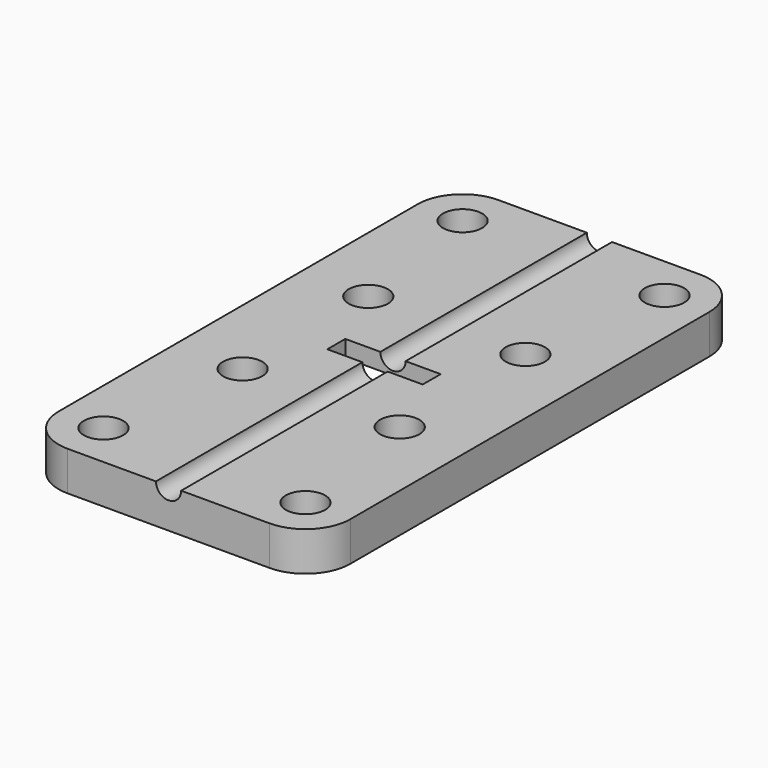
from build123d import *

# Parameters (mm, degrees)
F0_R     = 1.75
F0_W     = 12
F0_H     = 10
F1_DEPTH = 2
F2_R     = 1.75
F3_DEPTH = 1.5
F4_R     = 1.125
F5_DEPTH = 60
F6_W     = 8.5
F6_H     = 2
F7_DEPTH = 5


with BuildPart() as f1:
    # F0 (on Top) → F1 (new body)
    with BuildSketch(Plane.XY):
        with BuildLine():
            ThreePointArc((-13, -20), (-11.828427, -22.828427), (-9, -24))
            Line((-9, -24), (9, -24))
            ThreePointArc((9, -24), (11.828427, -22.828427), (13, -20))
            Line((13, -20), (13, 20))
            ThreePointArc((13, 20), (11.828427, 22.828427), (9, 24))
            Line((9, 24), (-9, 24))
            ThreePointArc((-9, 24), (-11.828427, 22.828427), (-13, 20))
            Line((-13, 20), (-13, -20))
        make_face()
        with Locations((-9, -20)):
            Circle(F0_R, mode=Mode.SUBTRACT)
        with Locations((-7, -7)):
            Circle(F0_R, mode=Mode.SUBTRACT)
        with Locations((9, -20)):
            Circle(F0_R, mode=Mode.SUBTRACT)
        with Locations((7, -7)):
            Circle(F0_R, mode=Mode.SUBTRACT)
        with Locations((-7, 7)):
            Circle(F0_R, mode=Mode.SUBTRACT)
        with Locations((-9, 20)):
            Circle(F0_R, mode=Mode.SUBTRACT)
        Rectangle(F0_W, F0_H, mode=Mode.SUBTRACT)
        with Locations((7, 7)):
            Circle(F0_R, mode=Mode.SUBTRACT)
        with Locations((9, 20)):
            Circle(F0_R, mode=Mode.SUBTRACT)
    extrude(amount=F1_DEPTH)

    # F2 (on face) → F3 (join)
    with BuildSketch(Plane.XY.offset(2)):
        with BuildLine():
            ThreePointArc((-13, -20), (-11.828427, -22.828427), (-9, -24))
            Line((-9, -24), (9, -24))
            ThreePointArc((9, -24), (11.828427, -22.828427), (13, -20))
            Line((13, -20), (13, 20))
            ThreePointArc((13, 20), (11.828427, 22.828427), (9, 24))
            Line((9, 24), (-9, 24))
            ThreePointArc((-9, 24), (-11.828427, 22.828427), (-13, 20))
            Line((-13, 20), (-13, -20))
        make_face()
        with Locations((-9, -20)):
            Circle(F2_R, mode=Mode.SUBTRACT)
        with Locations((-7, -7)):
            Circle(F2_R, mode=Mode.SUBTRACT)
        with Locations((9, -20)):
            Circle(F2_R, mode=Mode.SUBTRACT)
        with Locations((7, -7)):
            Circle(F2_R, mode=Mode.SUBTRACT)
        with Locations((-7, 7)):
            Circle(F2_R, mode=Mode.SUBTRACT)
        with Locations((-9, 20)):
            Circle(F2_R, mode=Mode.SUBTRACT)
        with Locations((7, 7)):
            Circle(F2_R, mode=Mode.SUBTRACT)
        with Locations((9, 20)):
            Circle(F2_R, mode=Mode.SUBTRACT)
    extrude(amount=F3_DEPTH)


with BuildPart() as f5:
    # F4 (on face) → F5 (new body)
    with BuildSketch(Plane.XZ.offset(24)):
        with Locations((0, 3.5)):
            Circle(F4_R)
    extrude(amount=-F5_DEPTH)


with BuildPart() as f7:
    # F6 (on face) → F7 (new body)
    with BuildSketch(Plane.XY.offset(3.5)):
        Rectangle(F6_W, F6_H)
    extrude(amount=-F7_DEPTH)


with BuildPart() as f1_1:
    add(f1.part)

    # F8: cut F5, F7
    add(f5.part, mode=Mode.SUBTRACT)
    add(f7.part, mode=Mode.SUBTRACT)


solid = f1_1.part
